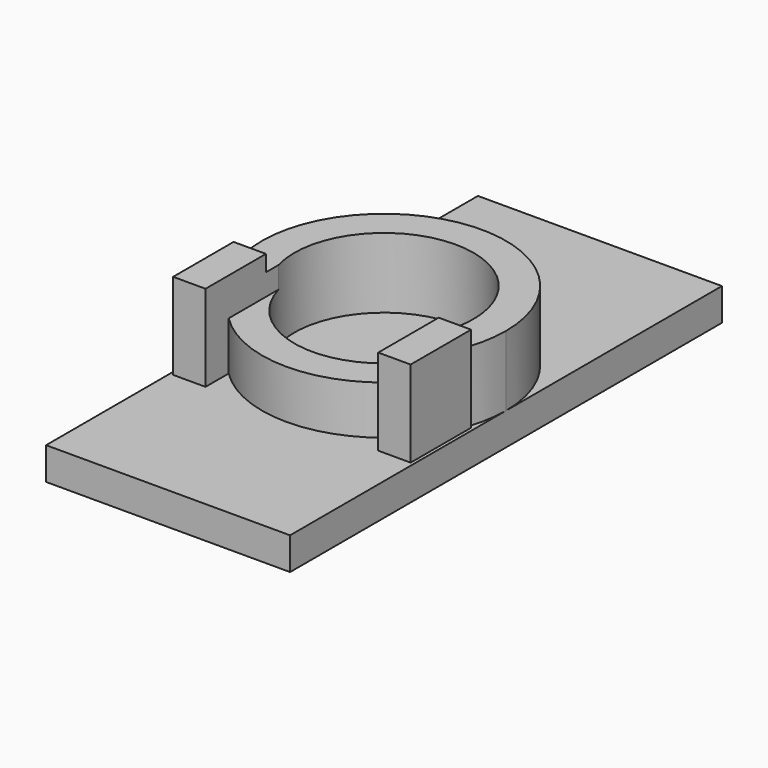
from build123d import *

# Parameters (mm, degrees)
F0_R     = 8.3
F1_DEPTH = 6.5
F2_DEPTH = 8
F4_DEPTH = 2
F5_DEPTH = 3


with BuildPart() as f1:
    # F0 (on Top) → F1 (new body)
    with BuildSketch(Plane.XY):
        with BuildLine():
            ThreePointArc((10.6887791632, -3.666060556), (11.1461474184, -1.8583319746), (11.3, 0))
            ThreePointArc((11.3, 0), (6.7e-09, 11.3), (-11.3, 1.34e-08))
            ThreePointArc((-11.3, 1.34e-08), (-11.1461474195, -1.858331968), (-10.6887791632, -3.666060556))
            Line((-10.6887791632, -3.666060556), (-8, -3.666060556))
            Line((-8, -3.666060556), (-8, -7.9806014811))
            ThreePointArc((-8, -7.9806014811), (0, -11.3), (8, -7.9806014811))
            Line((8, -7.9806014811), (8, -3.666060556))
            Line((8, -3.666060556), (10.6887791632, -3.666060556))
        make_face()
        Circle(F0_R, mode=Mode.SUBTRACT)
    extrude(amount=F1_DEPTH)

    # F0 (on Top) → F2 (join)
    with BuildSketch(Plane.XY):
        with BuildLine():
            ThreePointArc((8, -7.9806014811), (9.5901737472, -5.9765012757), (10.6887791632, -3.666060556))
            Line((10.6887791632, -3.666060556), (8, -3.666060556))
            Line((8, -3.666060556), (8, -7.9806014811))
        make_face()
        with BuildLine():
            Line((11, -3.666060556), (10.6887791632, -3.666060556))
            ThreePointArc((10.6887791632, -3.666060556), (9.5901737472, -5.9765012757), (8, -7.9806014811))
            Line((8, -7.9806014811), (8, -10.666060556))
            Line((8, -10.666060556), (11, -10.666060556))
            Line((11, -10.666060556), (11, -3.666060556))
        make_face()
        with BuildLine():
            ThreePointArc((-8, -7.9806014811), (-9.5901737472, -5.9765012757), (-10.6887791632, -3.666060556))
            Line((-10.6887791632, -3.666060556), (-11, -3.666060556))
            Line((-11, -3.666060556), (-11, -10.666060556))
            Line((-11, -10.666060556), (-8, -10.666060556))
            Line((-8, -10.666060556), (-8, -7.9806014811))
        make_face()
        with BuildLine():
            Line((-8, -3.666060556), (-10.6887791632, -3.666060556))
            ThreePointArc((-10.6887791632, -3.666060556), (-9.5901737472, -5.9765012757), (-8, -7.9806014811))
            Line((-8, -7.9806014811), (-8, -3.666060556))
        make_face()
    extrude(amount=F2_DEPTH)

    # F3 (on face) → F4 (cut)
    with BuildSketch(Plane.XY.offset(6.5)):
        with BuildLine():
            Line((7.4464756765, -3.666060556), (-7.4464756765, -3.666060556))
            ThreePointArc((-7.4464756765, -3.666060556), (0, -8.3), (7.4464756765, -3.666060556))
        make_face()
        with BuildLine():
            Line((-7.4464756765, -3.666060556), (-8, -3.666060556))
            Line((-8, -3.666060556), (-8, -7.9806014811))
            ThreePointArc((-8, -7.9806014811), (-6.0175392622, -9.5644770494), (-3.7316420268, -10.666060556))
            Line((-3.7316420268, -10.666060556), (3.7316420268, -10.666060556))
            ThreePointArc((3.7316420268, -10.666060556), (6.0175392622, -9.5644770494), (8, -7.9806014811))
            Line((8, -7.9806014811), (8, -3.666060556))
            Line((8, -3.666060556), (7.4464756765, -3.666060556))
            ThreePointArc((7.4464756765, -3.666060556), (0, -8.3), (-7.4464756765, -3.666060556))
        make_face()
        with BuildLine():
            ThreePointArc((8, -7.9806014811), (6.0175392622, -9.5644770494), (3.7316420268, -10.666060556))
            Line((3.7316420268, -10.666060556), (8, -10.666060556))
            Line((8, -10.666060556), (8, -7.9806014811))
        make_face()
        with BuildLine():
            ThreePointArc((-3.7316420268, -10.666060556), (-6.0175392622, -9.5644770494), (-8, -7.9806014811))
            Line((-8, -7.9806014811), (-8, -10.666060556))
            Line((-8, -10.666060556), (-3.7316420268, -10.666060556))
        make_face()
        with BuildLine():
            Line((8, -10.666060556), (3.7316420268, -10.666060556))
            ThreePointArc((3.7316420268, -10.666060556), (1.8925532645, -11.1403878811), (0, -11.3))
            Line((0, -11.3), (8, -11.3))
            Line((8, -11.3), (8, -10.666060556))
        make_face()
        with BuildLine():
            Line((3.7316420268, -10.666060556), (-3.7316420268, -10.666060556))
            ThreePointArc((-3.7316420268, -10.666060556), (-1.8925532645, -11.1403878811), (0, -11.3))
            ThreePointArc((0, -11.3), (1.8925532645, -11.1403878811), (3.7316420268, -10.666060556))
        make_face()
        with BuildLine():
            Line((-3.7316420268, -10.666060556), (-8, -10.666060556))
            Line((-8, -10.666060556), (-8, -11.3))
            Line((-8, -11.3), (0, -11.3))
            ThreePointArc((0, -11.3), (-1.8925532645, -11.1403878811), (-3.7316420268, -10.666060556))
        make_face()
        with BuildLine():
            ThreePointArc((8, -2.2113344387), (7.7574132109, -2.951701251), (7.4464756765, -3.666060556))
            Line((7.4464756765, -3.666060556), (8, -3.666060556))
            Line((8, -3.666060556), (8, -2.2113344387))
        make_face()
        with BuildLine():
            Line((-8, -2.2113344387), (-8, -3.666060556))
            Line((-8, -3.666060556), (-7.4464756765, -3.666060556))
            ThreePointArc((-7.4464756765, -3.666060556), (-7.7574132109, -2.951701251), (-8, -2.2113344387))
        make_face()
        with BuildLine():
            ThreePointArc((-8, -2.2113344387), (-7.7574132109, -2.951701251), (-7.4464756765, -3.666060556))
            Line((-7.4464756765, -3.666060556), (7.4464756765, -3.666060556))
            ThreePointArc((7.4464756765, -3.666060556), (7.7574132109, -2.951701251), (8, -2.2113344387))
            Line((8, -2.2113344387), (-8, -2.2113344387))
        make_face()
    extrude(amount=-F4_DEPTH, mode=Mode.SUBTRACT)

    # F0 (on Top) → F5 (join)
    with BuildSketch(Plane.XY):
        with BuildLine():
            ThreePointArc((10.6887791632, -3.666060556), (11.1461474184, -1.8583319746), (11.3, 0))
            ThreePointArc((11.3, 0), (6.7e-09, 11.3), (-11.3, 1.34e-08))
            ThreePointArc((-11.3, 1.34e-08), (-11.1461474195, -1.858331968), (-10.6887791632, -3.666060556))
            Line((-10.6887791632, -3.666060556), (-8, -3.666060556))
            Line((-8, -3.666060556), (-8, -7.9806014811))
            ThreePointArc((-8, -7.9806014811), (0, -11.3), (8, -7.9806014811))
            Line((8, -7.9806014811), (8, -3.666060556))
            Line((8, -3.666060556), (10.6887791632, -3.666060556))
        make_face()
        Circle(F0_R, mode=Mode.SUBTRACT)
        with BuildLine():
            ThreePointArc((8, -7.9806014811), (9.5901737472, -5.9765012757), (10.6887791632, -3.666060556))
            Line((10.6887791632, -3.666060556), (8, -3.666060556))
            Line((8, -3.666060556), (8, -7.9806014811))
        make_face()
        with BuildLine():
            Line((11, -3.666060556), (10.6887791632, -3.666060556))
            ThreePointArc((10.6887791632, -3.666060556), (9.5901737472, -5.9765012757), (8, -7.9806014811))
            Line((8, -7.9806014811), (8, -10.666060556))
            Line((8, -10.666060556), (11, -10.666060556))
            Line((11, -10.666060556), (11, -3.666060556))
        make_face()
        with BuildLine():
            Line((-8, -3.666060556), (-10.6887791632, -3.666060556))
            ThreePointArc((-10.6887791632, -3.666060556), (-9.5901737472, -5.9765012757), (-8, -7.9806014811))
            Line((-8, -7.9806014811), (-8, -3.666060556))
        make_face()
        with BuildLine():
            ThreePointArc((-8, -7.9806014811), (-9.5901737472, -5.9765012757), (-10.6887791632, -3.666060556))
            Line((-10.6887791632, -3.666060556), (-11, -3.666060556))
            Line((-11, -3.666060556), (-11, -10.666060556))
            Line((-11, -10.666060556), (-8, -10.666060556))
            Line((-8, -10.666060556), (-8, -7.9806014811))
        make_face()
        with BuildLine():
            Line((11.3, -25), (11.3, 0))
            ThreePointArc((11.3, 0), (11.1461474184, -1.8583319746), (10.6887791632, -3.666060556))
            Line((10.6887791632, -3.666060556), (11, -3.666060556))
            Line((11, -3.666060556), (11, -10.666060556))
            Line((11, -10.666060556), (8, -10.666060556))
            Line((8, -10.666060556), (8, -7.9806014811))
            ThreePointArc((8, -7.9806014811), (0, -11.3), (-8, -7.9806014811))
            Line((-8, -7.9806014811), (-8, -10.666060556))
            Line((-8, -10.666060556), (-11, -10.666060556))
            Line((-11, -10.666060556), (-11, -3.666060556))
            Line((-11, -3.666060556), (-10.6887791632, -3.666060556))
            ThreePointArc((-10.6887791632, -3.666060556), (-11.1461474195, -1.858331968), (-11.3, 1.34e-08))
            Line((-11.3, 1.34e-08), (-11.3, -25))
            Line((-11.3, -25), (11.3, -25))
        make_face()
        with BuildLine():
            ThreePointArc((-11.3, 1.34e-08), (6.7e-09, 11.3), (11.3, 0))
            Line((11.3, 0), (11.3, 25))
            Line((11.3, 25), (-11.3, 25))
            Line((-11.3, 25), (-11.3, 1.34e-08))
        make_face()
        Circle(F0_R)
    extrude(amount=-F5_DEPTH)


solid = f1.part
